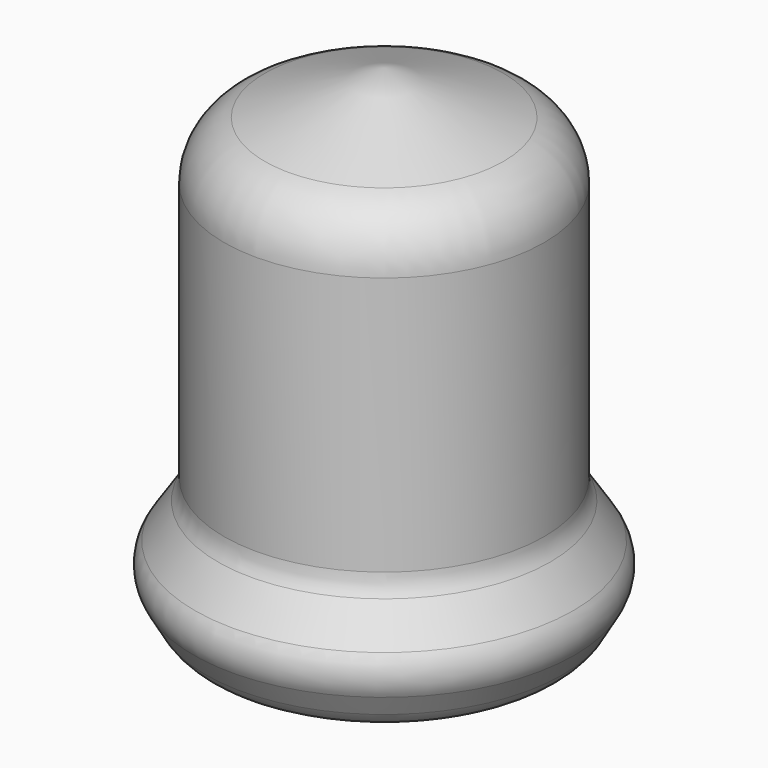
from build123d import *


with BuildPart() as f1:
    # F0 (on Front) → F1 (revolve)
    with BuildSketch(Plane.XZ):
        with BuildLine():
            Line((24.506129, 43.80432), (0, 52.723782))
            Line((0, 52.723782), (0, -48.876218))
            Line((0, -48.876218), (29.960723, -48.876218))
            ThreePointArc((29.960723, -48.876218), (33.783299, -47.848054), (36.574318, -45.041024))
            Line((36.574318, -45.041024), (39.095102, -40.63619))
            ThreePointArc((39.095102, -40.63619), (40.097999, -36.620213), (38.853392, -32.672451))
            Line((38.853392, -32.672451), (34.110605, -25.440821))
            ThreePointArc((34.110605, -25.440821), (33.181183, -23.442558), (32.86249, -21.261888))
            Line((32.86249, -21.261888), (32.86249, 31.870217))
            ThreePointArc((32.86249, 31.870217), (30.565716, 39.154645), (24.506129, 43.80432))
        make_face()
    revolve(axis=Axis((0, 0, 1.923782), (0, 0, -1)))


solid = f1.part
